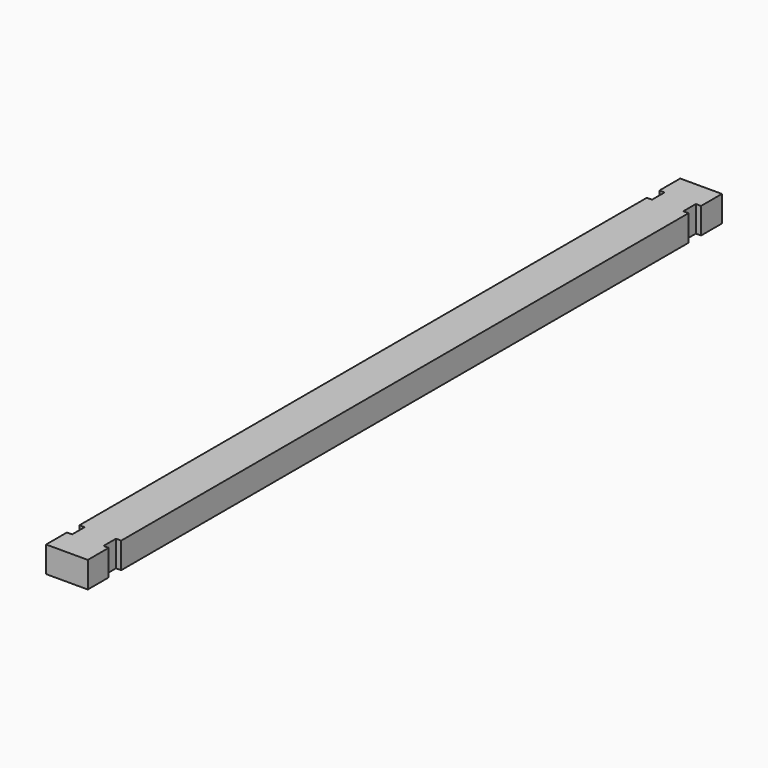
from build123d import *

# Parameters (mm, degrees)
F1_DEPTH = 15.875


with BuildPart() as f1:
    # F0 (on Top) → F1 (new body)
    with BuildSketch(Plane.XY):
        Polygon((10.902022, 448.334151), (-14.497978, 448.334151), (-14.497978, 432.459151), (-11.322978, 432.459151), (-11.322978, 422.934151), (-14.497978, 422.934151), (-14.497978, -8.865849), (-11.322978, -8.865849), (-11.322978, -18.390849), (-14.497978, -18.390849), (-14.497978, -34.265849), (10.902022, -34.265849), (10.902022, -18.390849), (7.727022, -18.390849), (7.727022, -8.865849), (10.902022, -8.865849), (10.902022, 422.934151), (7.727022, 422.934151), (7.727022, 432.459151), (10.902022, 432.459151), align=None)
    extrude(amount=F1_DEPTH)


solid = f1.part
